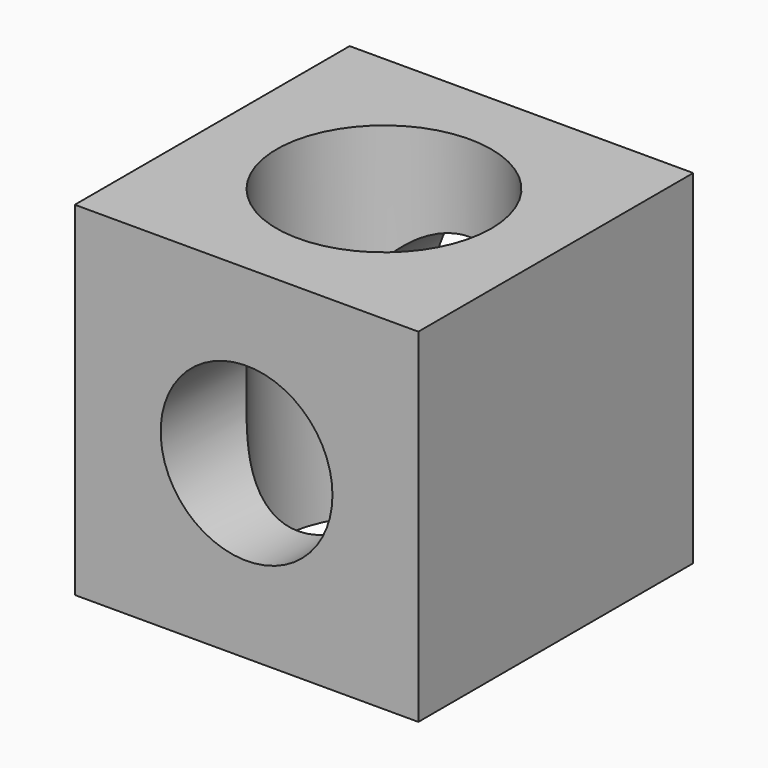
from build123d import *

# Parameters (mm, degrees)
SKETCH_W        = 40
SKETCH_H        = 40
PAD_DEPTH       = 40
SKETCH001_R     = 12.5
POCKET_DEPTH    = 40.001
SKETCH002_R     = 10
POCKET001_DEPTH = 40.001


with BuildPart() as part:
    # Sketch → Pad (new body)
    with BuildSketch(Plane.XY):
        Rectangle(SKETCH_W, SKETCH_H)
    extrude(amount=PAD_DEPTH)

    # Sketch001 (on Face6 of Pad) → Pocket (cut, through all)
    with BuildSketch(Plane.XY.offset(40)):
        Circle(SKETCH001_R)
    extrude(amount=-POCKET_DEPTH, mode=Mode.SUBTRACT)

    # Sketch002 (on Face6 of Pocket) → Pocket001 (cut, through all)
    with BuildSketch(Plane.XZ.offset(20)):
        with Locations((0, 20)):
            Circle(SKETCH002_R)
    extrude(amount=-POCKET001_DEPTH, mode=Mode.SUBTRACT)


solid = part.part
